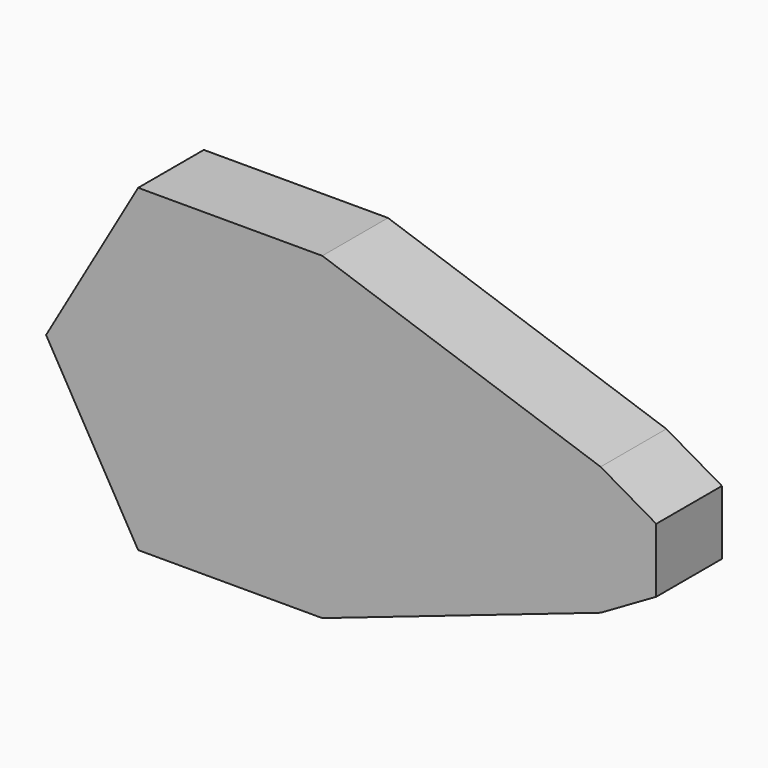
from build123d import *

# Parameters (mm, degrees)
F1_DEPTH = 25.4


with BuildPart() as f1:
    # F0 (on Front) → F1 (new body)
    with BuildSketch(Plane.XZ):
        Polygon((-25.515185, 49.338989), (-82.486942, 49.338989), (-110.97282, 0), (-82.486942, -49.338989), (-25.515185, -49.338989), (2.970694, 0), align=None)
        Polygon((60.591042, 19.869066), (-25.515185, 49.338989), (2.970694, 0), (-25.515185, -49.338989), (60.591042, -19.869066), (43.383926, -9.934533), (43.383926, 9.934533), align=None)
        Polygon((77.798158, 9.934533), (60.591042, 19.869066), (43.383926, 9.934533), (43.383926, -9.934533), (60.591042, -19.869066), (77.798158, -9.934533), align=None)
    extrude(amount=F1_DEPTH)


solid = f1.part
